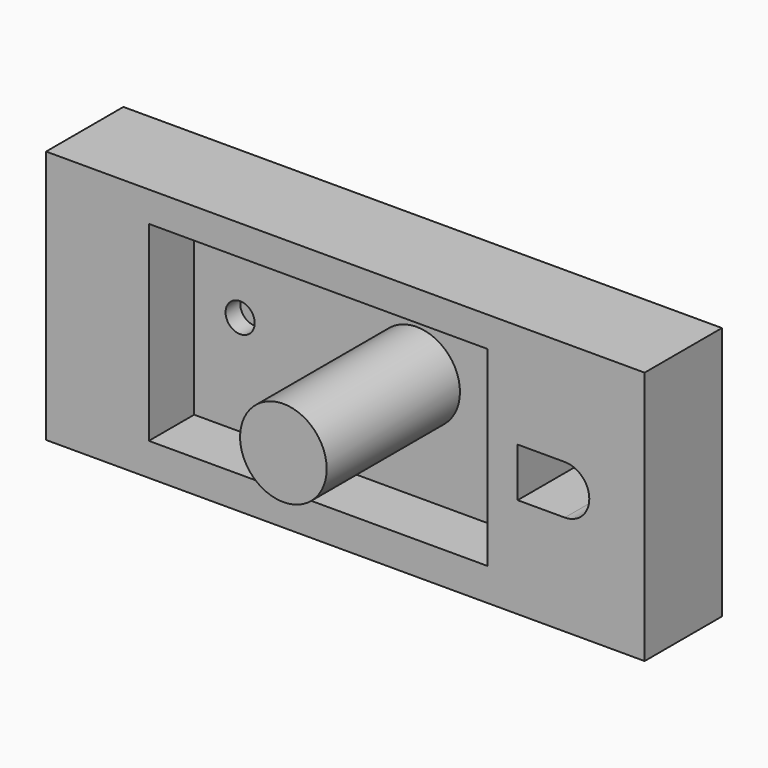
from build123d import *

# Parameters (mm, degrees)
F0_W     = 91.255646
F0_H     = 38.714515
F1_DEPTH = 14.732
F2_W     = 51.619354
F2_H     = 29.128062
F3_DEPTH = 8.636
F4_R     = 2.219926
F5_DEPTH = 2.794
F7_DEPTH = 10.668
F8_R     = 6.600831
F9_DEPTH = 25.4


with BuildPart() as f1:
    # F0 (on Front) → F1 (new body)
    with BuildSketch(Plane.XZ):
        with Locations((7.005485, -3.410563)):
            Rectangle(F0_W, F0_H)
    extrude(amount=F1_DEPTH)

    # F2 (on face) → F3 (cut)
    with BuildSketch(Plane.XZ.offset(14.732)):
        with Locations((2.857499, -3.22621)):
            Rectangle(F2_W, F2_H)
    extrude(amount=-F3_DEPTH, mode=Mode.SUBTRACT)

    # F4 (on face) → F5 (cut)
    with BuildSketch(Plane.XZ.offset(6.096)):
        with Locations((-15.946694, -2.48879)):
            Circle(F4_R)
    extrude(amount=-F5_DEPTH, mode=Mode.SUBTRACT)

    # F6 (on face) → F7 (cut)
    with BuildSketch(Plane.XZ.offset(14.732)):
        with BuildLine():
            Line((33.276051, 0), (33.276051, -3.22621))
            Line((33.276051, -3.22621), (33.276051, -7.466371))
            Line((33.276051, -7.466371), (40.465884, -7.466371))
            ThreePointArc((40.465884, -7.466371), (44.199069, -3.733185), (40.465884, 0))
            Line((40.465884, 0), (33.276051, 0))
        make_face()
    extrude(amount=-F7_DEPTH, mode=Mode.SUBTRACT)

    # F8 (on face) → F9 (join)
    with BuildSketch(Plane.XZ.offset(6.096)):
        with Locations((10.969113, -1.567016)):
            Circle(F8_R)
    extrude(amount=F9_DEPTH)


solid = f1.part
